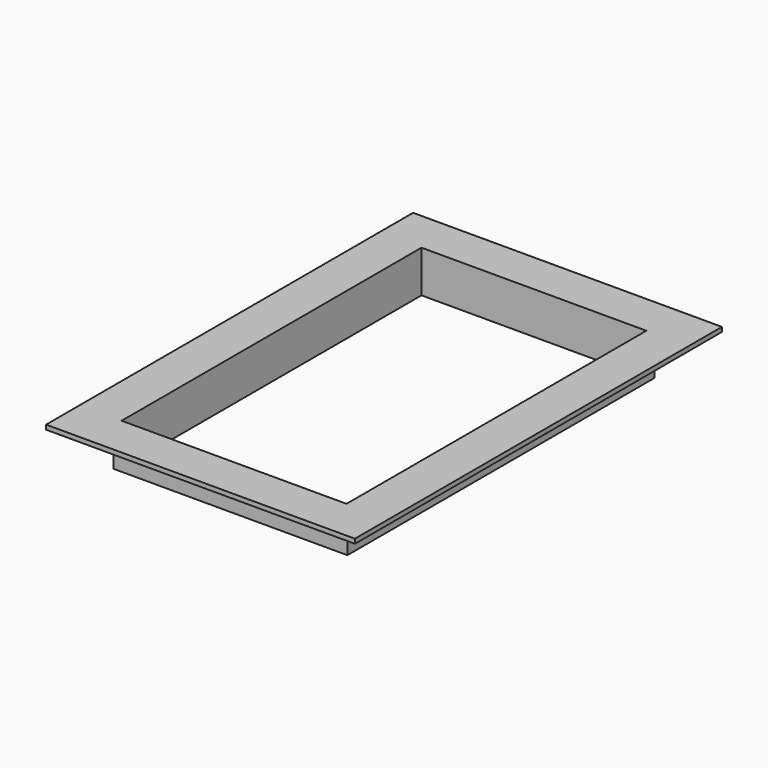
from build123d import *

# Parameters (mm, degrees)
SKETCH045_W  = 300
SKETCH045_H  = 60
PAD007_DEPTH = 250
SKETCH046_W  = 312
SKETCH046_H  = 50
PAD008_DEPTH = 256
SKETCH047_W  = 412
SKETCH047_H  = 612
PAD009_DEPTH = 6


with BuildPart() as body008:
    # Sketch045 → Pad007 (new body, symmetric)
    with BuildSketch(Plane.XZ):
        with Locations((0, 30)):
            Rectangle(SKETCH045_W, SKETCH045_H)
    extrude(amount=PAD007_DEPTH, both=True)


with BuildPart() as cut005:
    # Sketch046 → Pad008 (new body, symmetric)
    with BuildSketch(Plane.XZ):
        with Locations((0, 25)):
            Rectangle(SKETCH046_W, SKETCH046_H)
    extrude(amount=PAD008_DEPTH, both=True)

    # Sketch047 (on Face3 of Pad008) → Pad009 (join)
    with BuildSketch(Plane(origin=(0, 0, 50), x_dir=(-1, 0, 0), z_dir=(0, 0, 1))):
        Rectangle(SKETCH047_W, SKETCH047_H)
    extrude(amount=PAD009_DEPTH)

    # Cut005: cut Body008
    add(body008.part, mode=Mode.SUBTRACT)


solid = cut005.part
